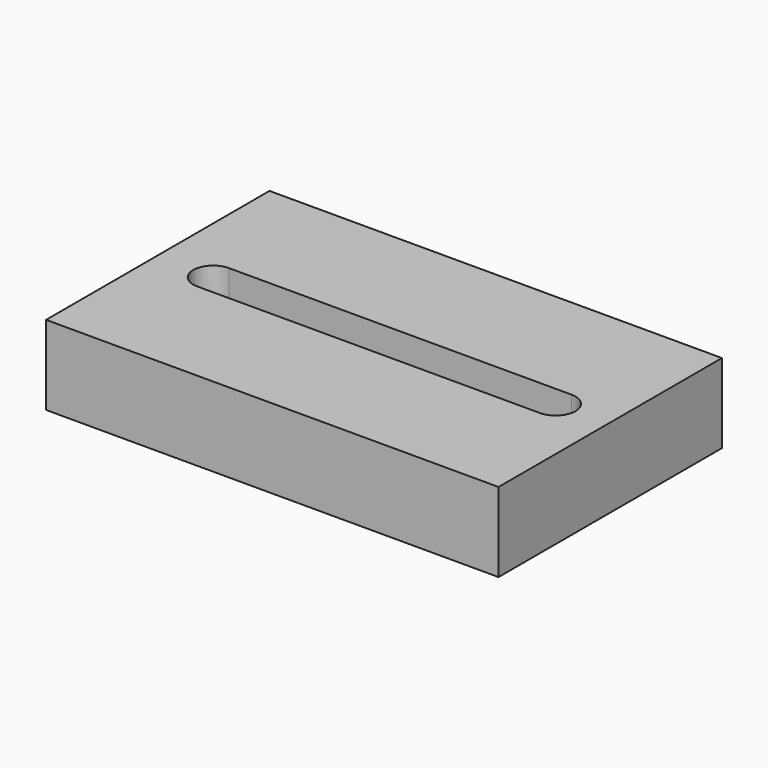
from build123d import *

# Parameters (mm, degrees)
F0_W     = 144.836355
F0_H     = 89.3826
F2_DEPTH = 25.4
F3_DEPTH = 25.401


with BuildPart() as f2:
    # F0 (on Top) → F2 (new body)
    with BuildSketch(Plane.XY):
        with Locations((-11.173098, 0.619659)):
            Rectangle(F0_W, F0_H)
    extrude(amount=F2_DEPTH)

    # F1 (on Top) → F3 (cut, through all)
    with BuildSketch(Plane.XY):
        with BuildLine():
            ThreePointArc((-65.383278, 6.35), (-71.733278, 0), (-65.383278, -6.35))
            Line((-65.383278, -6.35), (44.27854, -6.35))
            ThreePointArc((44.27854, -6.35), (50.62854, 0), (44.27854, 6.35))
            Line((44.27854, 6.35), (-65.383278, 6.35))
        make_face()
    extrude(amount=F3_DEPTH, mode=Mode.SUBTRACT)


solid = f2.part
